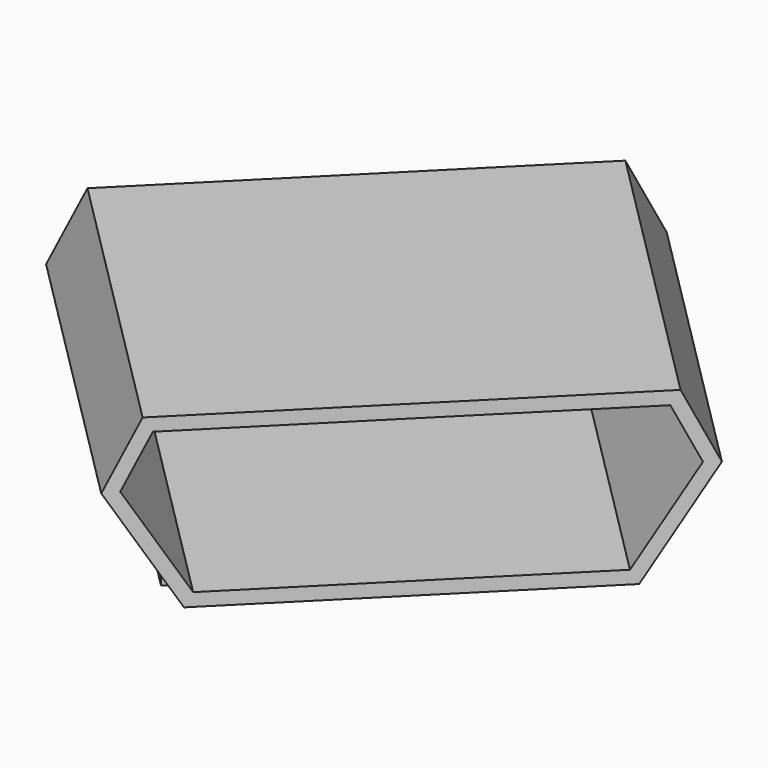
from build123d import *

# Parameters (mm, degrees)
PAD020_DEPTH            = 6
THICKNESS_T             = -0.2
SKETCH043_W             = 0.1
SKETCH043_H             = 1
PAD001_DEPTH            = 1
SKETCH044_W             = 0.5
SKETCH044_H             = 0.5
PAD002_DEPTH            = 0.4
SKETCH003_W             = 0.32
SKETCH003_H             = 1.35
PAD003_DEPTH            = 0.1
BODY001_ROLL_ANGLE      = 90.000024
BODY001_PITCH_ANGLE     = -1e-05
BODY001_PLACEMENT_ANGLE = 45.000049


with BuildPart() as part:
    # Sketch042 → Pad020 (new body)
    with BuildSketch(Plane.XY):
        Polygon((0, 0), (6.5, 0), (7, -1), (6, -2.6), (0.5, -2.6), (-0.5, -1), align=None)
    extrude(amount=PAD020_DEPTH)

    # Thickness
    thickness_openings = [part.faces().sort_by_distance(p)[0] for p in [
        (3.25, -1.25728, 6),
    ]]
    offset(amount=THICKNESS_T, openings=thickness_openings)

    # Sketch043 (on Face5 of Thickness) → Pad001 (join)
    with BuildSketch(Plane.XZ.offset(2.6)):
        with Locations((5.95, 3)):
            Rectangle(SKETCH043_W, SKETCH043_H)
        with Locations((0.55, 3)):
            Rectangle(SKETCH043_W, SKETCH043_H)
    extrude(amount=PAD001_DEPTH)

    # Sketch044 (on Face7 of Pad001) → Pad002 (join)
    with BuildSketch(Plane.XZ.offset(2.6)):
        with Locations((1.35, 0.25)):
            Rectangle(SKETCH044_W, SKETCH044_H)
        with Locations((5.15, 0.25)):
            Rectangle(SKETCH044_W, SKETCH044_H)
    extrude(amount=PAD002_DEPTH)

    # Sketch003 (on Face7 of Pad002) → Pad003 (join)
    with BuildSketch(Plane.XZ.offset(2.6)):
        with Locations((1.81, -0.025)):
            Rectangle(SKETCH003_W, SKETCH003_H)
        with Locations((2.53, -0.025)):
            Rectangle(SKETCH003_W, SKETCH003_H)
        with Locations((3.25, -0.025)):
            Rectangle(SKETCH003_W, SKETCH003_H)
        with Locations((3.97, -0.025)):
            Rectangle(SKETCH003_W, SKETCH003_H)
        with Locations((4.69, -0.025)):
            Rectangle(SKETCH003_W, SKETCH003_H)
    extrude(amount=PAD003_DEPTH)


with BuildPart() as part_1:
    # Body001 roll: moved
    add(part.part.rotate(Axis((0, 0, 0), (1, 0, 0)), BODY001_ROLL_ANGLE))


with BuildPart() as part_2:
    # Body001 pitch: moved
    add(part_1.part.rotate(Axis((0, 0, 0), (0, 1, 0)), BODY001_PITCH_ANGLE))


with BuildPart() as part_3:
    # Body001 placement: moved
    add(part_2.part.moved(Location((37.1001, -41.6658, 24))).rotate(Axis((37.1001, -41.6658, 24), (0, 0, 1)), BODY001_PLACEMENT_ANGLE))


solid = part_3.part
